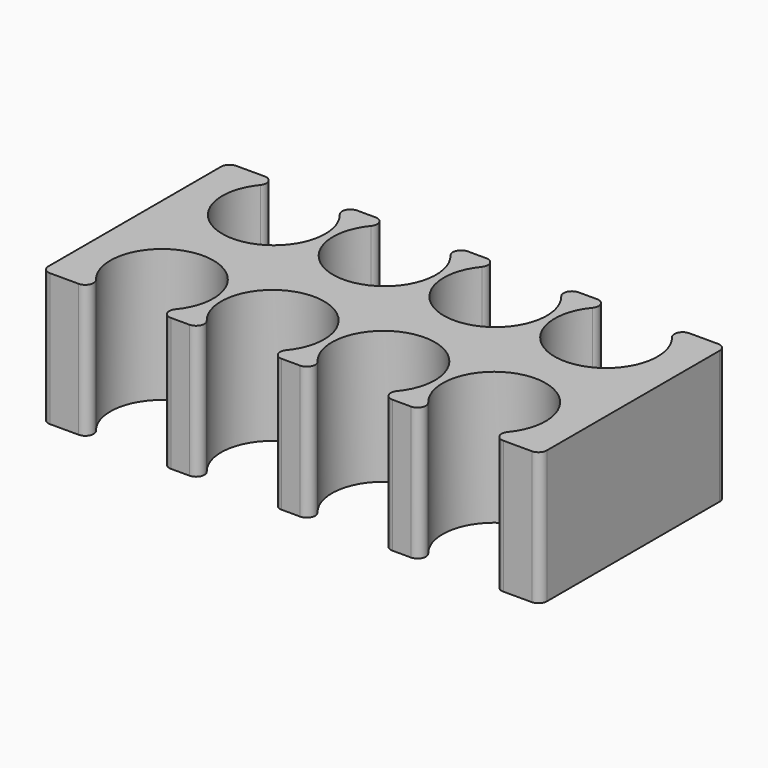
from build123d import *

# Parameters (mm, degrees)
SKETCH006_W            = 30
SKETCH006_H            = 14
PAD003_DEPTH           = 8
SKETCH007_R            = 3.1
POCKET003_DEPTH        = 0.001
POCKET003_DEPTH_BACK   = 8.001
LINEARPATTERN003_COUNT = 4
LINEARPATTERN003_PITCH = 6.666667
PARTDESIGN_FILLET003_R = 0.5


with BuildPart() as part:
    # Sketch006 → Pad003 (new body)
    with BuildSketch(Plane.XY):
        Rectangle(SKETCH006_W, SKETCH006_H)
    extrude(amount=PAD003_DEPTH)

    # Sketch007 → Pocket003 (cut, two sides)
    with BuildSketch(Plane.XY) as pocket003_sk:
        with Locations((-10, 4.21)):
            Circle(SKETCH007_R)
        with Locations((-10, -4.21)):
            Circle(SKETCH007_R)
    pocket003 = extrude(amount=-POCKET003_DEPTH, mode=Mode.SUBTRACT) + extrude(pocket003_sk.sketch, amount=POCKET003_DEPTH_BACK, mode=Mode.SUBTRACT)

    # LinearPattern003: Pocket003 ×4
    with Locations(*[(i * LINEARPATTERN003_PITCH, 0, 0) for i in range(1, LINEARPATTERN003_COUNT)]):
        add(pocket003, mode=Mode.SUBTRACT)

    # PartDesign__Fillet003
    partdesign_fillet003_edges = [part.edges().sort_by_distance(p)[0] for p in [
        (-15, -7, 4),
        (-15, 7, 4),
        (-11.351259, -7, 4),
        (-11.351259, 7, 4),
        (-6.9, -4.21, 4),
        (-6.9, 4.21, 4),
        (-8.648741, 7, 4),
        (-4.684592, 7, 4),
        (-0.233333, 4.21, 4),
        (-1.982075, 7, 4),
        (1.982075, 7, 4),
        (6.433333, 4.21, 4),
        (4.684592, 7, 4),
        (8.648741, 7, 4),
        (13.1, 4.21, 4),
        (11.351259, 7, 4),
        (15, 7, 4),
        (15, -7, 4),
        (11.351259, -7, 4),
        (13.1, -4.21, 4),
        (8.648741, -7, 4),
        (4.684592, -7, 4),
        (6.433333, -4.21, 4),
        (1.982075, -7, 4),
        (-1.982075, -7, 4),
        (-0.233333, -4.21, 4),
        (-4.684592, -7, 4),
        (-8.648741, -7, 4),
    ]]
    fillet(partdesign_fillet003_edges, radius=PARTDESIGN_FILLET003_R)


solid = part.part
